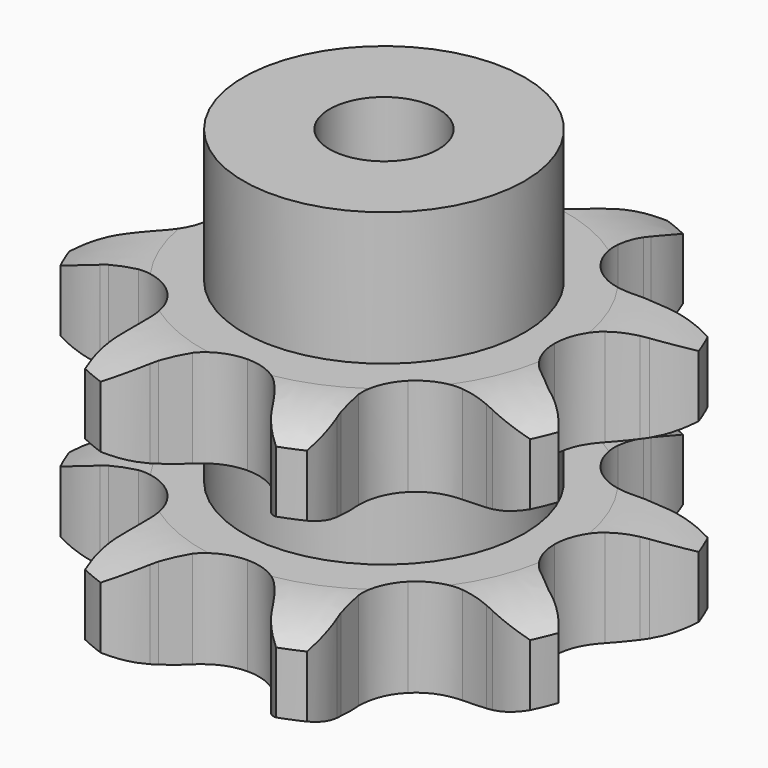
from build123d import *

# Parameters (mm, degrees)
PAD_DEPTH         = 30.3
SKETCH001_R       = 15.5
PAD001_DEPTH      = 45
SKETCH002_R       = 6
POCKET_DEPTH      = 0.001
POCKET_DEPTH_BACK = -45.001


with BuildPart() as part:
    # Sprocket → Pad (new body)
    with BuildSketch(Plane.XY):
        with BuildLine():
            ThreePointArc((-11.611878, 28.033554), (-8.844692, 26.332952), (-6.736351, 23.862271))
            Line((-6.736351, 23.862271), (-6.317841, 23.179325))
            ThreePointArc((-6.317841, 23.179325), (-5.466767, 21.929355), (-4.499806, 20.766712))
            ThreePointArc((-4.499806, 20.766712), (-2.458074, 19.303627), (0, 18.786749))
            ThreePointArc((0, 18.786749), (2.458074, 19.303627), (4.499806, 20.766712))
            ThreePointArc((4.499806, 20.766712), (5.466767, 21.929355), (6.317841, 23.179325))
            Line((6.317841, 23.179325), (6.736351, 23.862271))
            ThreePointArc((6.736351, 23.862271), (8.844692, 26.332952), (11.611878, 28.033554))
            ThreePointArc((11.611878, 28.033554), (12.366067, 24.874351), (12.109854, 21.636493))
            Line((12.109854, 21.636493), (11.92287, 20.857646))
            ThreePointArc((11.92287, 20.857646), (11.640808, 19.371983), (11.502439, 17.866126))
            ThreePointArc((11.502439, 17.866126), (11.911605, 15.387846), (13.284238, 13.284238))
            ThreePointArc((13.284238, 13.284238), (15.387846, 11.911605), (17.866126, 11.502439))
            Line((17.866126, 11.502439), (20.857646, 11.92287))
            ThreePointArc((20.857646, 11.92287), (21.245881, 12.021311), (21.636493, 12.109854))
            ThreePointArc((21.636493, 12.109854), (24.874351, 12.366067), (28.033554, 11.611878))
            ThreePointArc((28.033554, 11.611878), (26.332952, 8.844692), (23.862271, 6.736351))
            Line((23.862271, 6.736351), (23.179325, 6.317841))
            ThreePointArc((23.179325, 6.317841), (21.929355, 5.466767), (20.766712, 4.499806))
            ThreePointArc((20.766712, 4.499806), (19.303627, 2.458074), (18.786749, 0))
            ThreePointArc((18.786749, 0), (19.303627, -2.458074), (20.766712, -4.499806))
            Line((20.766712, -4.499806), (23.179325, -6.317841))
            ThreePointArc((23.179325, -6.317841), (23.523457, -6.522756), (23.862271, -6.736351))
            ThreePointArc((23.862271, -6.736351), (26.332952, -8.844692), (28.033554, -11.611878))
            ThreePointArc((28.033554, -11.611878), (24.874351, -12.366067), (21.636493, -12.109854))
            Line((21.636493, -12.109854), (20.857646, -11.92287))
            ThreePointArc((20.857646, -11.92287), (19.371983, -11.640808), (17.866126, -11.502439))
            ThreePointArc((17.866126, -11.502439), (15.387846, -11.911605), (13.284238, -13.284238))
            ThreePointArc((13.284238, -13.284238), (11.911605, -15.387846), (11.502439, -17.866126))
            Line((11.502439, -17.866126), (11.92287, -20.857646))
            ThreePointArc((11.92287, -20.857646), (12.021311, -21.245881), (12.109854, -21.636493))
            ThreePointArc((12.109854, -21.636493), (12.366067, -24.874351), (11.611878, -28.033554))
            ThreePointArc((11.611878, -28.033554), (8.844692, -26.332952), (6.736351, -23.862271))
            Line((6.736351, -23.862271), (6.317841, -23.179325))
            ThreePointArc((6.317841, -23.179325), (5.466767, -21.929355), (4.499806, -20.766712))
            ThreePointArc((4.499806, -20.766712), (2.458074, -19.303627), (0, -18.786749))
            ThreePointArc((0, -18.786749), (-2.458074, -19.303627), (-4.499806, -20.766712))
            Line((-4.499806, -20.766712), (-6.317841, -23.179325))
            ThreePointArc((-6.317841, -23.179325), (-6.522756, -23.523457), (-6.736351, -23.862271))
            ThreePointArc((-6.736351, -23.862271), (-8.844692, -26.332952), (-11.611878, -28.033554))
            ThreePointArc((-11.611878, -28.033554), (-12.366067, -24.874351), (-12.109854, -21.636493))
            Line((-12.109854, -21.636493), (-11.92287, -20.857646))
            ThreePointArc((-11.92287, -20.857646), (-11.640808, -19.371983), (-11.502439, -17.866126))
            ThreePointArc((-11.502439, -17.866126), (-11.911605, -15.387846), (-13.284238, -13.284238))
            ThreePointArc((-13.284238, -13.284238), (-15.387846, -11.911605), (-17.866126, -11.502439))
            Line((-17.866126, -11.502439), (-20.857646, -11.92287))
            ThreePointArc((-20.857646, -11.92287), (-21.245881, -12.021311), (-21.636493, -12.109854))
            ThreePointArc((-21.636493, -12.109854), (-24.874351, -12.366067), (-28.033554, -11.611878))
            ThreePointArc((-28.033554, -11.611878), (-26.332952, -8.844692), (-23.862271, -6.736351))
            Line((-23.862271, -6.736351), (-23.179325, -6.317841))
            ThreePointArc((-23.179325, -6.317841), (-21.929355, -5.466767), (-20.766712, -4.499806))
            ThreePointArc((-20.766712, -4.499806), (-19.303627, -2.458074), (-18.786749, 0))
            ThreePointArc((-18.786749, 0), (-19.303627, 2.458074), (-20.766712, 4.499806))
            Line((-20.766712, 4.499806), (-23.179325, 6.317841))
            ThreePointArc((-23.179325, 6.317841), (-23.523457, 6.522756), (-23.862271, 6.736351))
            ThreePointArc((-23.862271, 6.736351), (-26.332952, 8.844692), (-28.033554, 11.611878))
            ThreePointArc((-28.033554, 11.611878), (-24.874351, 12.366067), (-21.636493, 12.109854))
            Line((-21.636493, 12.109854), (-20.857646, 11.92287))
            ThreePointArc((-20.857646, 11.92287), (-19.371983, 11.640808), (-17.866126, 11.502439))
            ThreePointArc((-17.866126, 11.502439), (-15.387846, 11.911605), (-13.284238, 13.284238))
            ThreePointArc((-13.284238, 13.284238), (-11.911605, 15.387846), (-11.502439, 17.866126))
            Line((-11.502439, 17.866126), (-11.92287, 20.857646))
            ThreePointArc((-11.92287, 20.857646), (-12.021311, 21.245881), (-12.109854, 21.636493))
            ThreePointArc((-12.109854, 21.636493), (-12.366067, 24.874351), (-11.611878, 28.033554))
        make_face()
    extrude(amount=PAD_DEPTH)

    # Sketch → Groove (revolve, cut)
    with BuildSketch(Plane.XZ):
        with BuildLine():
            ThreePointArc((20.164719, 0), (24.523618, 0.506758), (28.65, 2))
            Line((28.65, 2), (28.65, 8.8))
            ThreePointArc((28.65, 8.8), (24.523618, 10.293242), (20.164719, 10.8))
            Line((15.5, 10.8), (20.164719, 10.8))
            Line((15.5, 19.5), (15.5, 10.8))
            Line((20.164719, 19.5), (15.5, 19.5))
            ThreePointArc((20.164719, 19.5), (24.523618, 20.006758), (28.65, 21.5))
            Line((28.65, 21.5), (28.65, 28.3))
            ThreePointArc((28.65, 28.3), (24.523618, 29.793242), (20.164719, 30.3))
            Line((20.164719, 30.3), (38.65, 30.3))
            Line((38.65, 30.3), (38.65, 0))
            Line((20.164719, 0), (38.65, 0))
        make_face()
    revolve(axis=Axis((0, 0, 0), (0, 0, 1)), mode=Mode.SUBTRACT)

    # Sketch001 → Pad001 (join)
    with BuildSketch(Plane.XY):
        Circle(SKETCH001_R)
    extrude(amount=PAD001_DEPTH)

    # Sketch002 → Pocket (cut, two sides)
    with BuildSketch(Plane.XY) as pocket_sk:
        Circle(SKETCH002_R)
    extrude(amount=-POCKET_DEPTH, mode=Mode.SUBTRACT)
    extrude(pocket_sk.sketch, amount=-POCKET_DEPTH_BACK, mode=Mode.SUBTRACT)


solid = part.part
